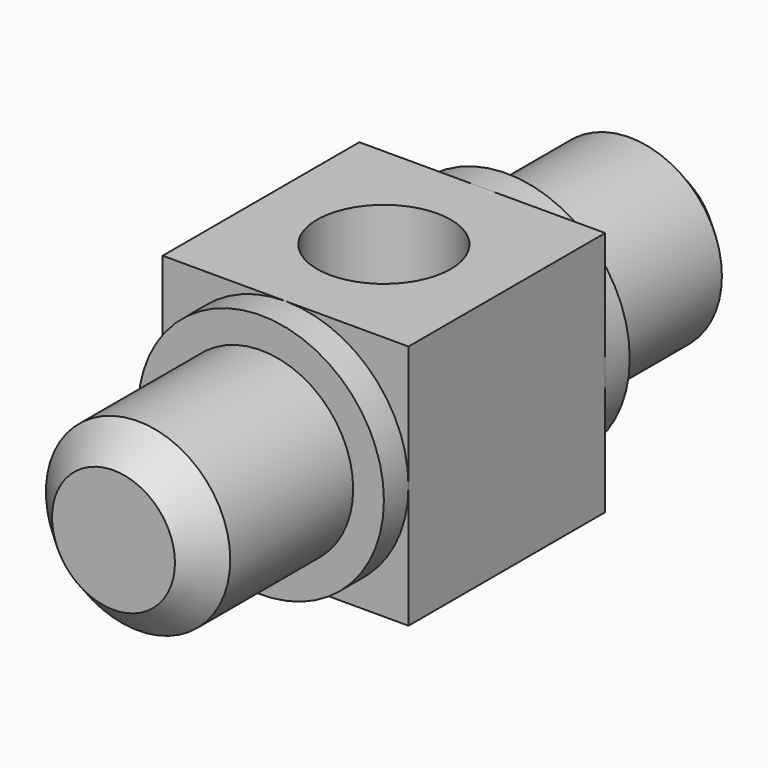
from build123d import *

# Parameters (mm, degrees)
F0_W     = 6.35
F0_H     = 6.35
F1_DEPTH = 6.35
F2_R     = 3.175
F3_DEPTH = 3.96875
F4_R     = 2.38125
F5_DEPTH = 8.73125
F6_R     = 1.7272
F7_DEPTH = 6.35
F8_SIZE  = 0.79375


with BuildPart() as f1:
    # F0 (on Top) → F1 (new body)
    with BuildSketch(Plane.XY):
        Rectangle(F0_W, F0_H)
    extrude(amount=F1_DEPTH)

    # F2 (on Front) → F3 (join, symmetric)
    with BuildSketch(Plane.XZ):
        with Locations((0, 3.175)):
            Circle(F2_R)
    extrude(amount=F3_DEPTH, both=True)

    # F4 (on Front) → F5 (join, symmetric)
    with BuildSketch(Plane.XZ):
        with Locations((0, 3.175)):
            Circle(F4_R)
    extrude(amount=F5_DEPTH, both=True)

    # F6 (on face) → F7 (cut, through all)
    with BuildSketch(Plane(origin=(0, 0, 0), x_dir=(1, 0, 0), z_dir=(0, 0, -1))):
        Circle(F6_R)
    extrude(amount=-F7_DEPTH, mode=Mode.SUBTRACT)

    # F8
    f8_edges = [f1.edges().sort_by_distance(p)[0] for p in [
        (-2.38125, -8.73125, 3.175),
        (-2.38125, 8.73125, 3.175),
    ]]
    chamfer(f8_edges, length=F8_SIZE)


solid = f1.part
